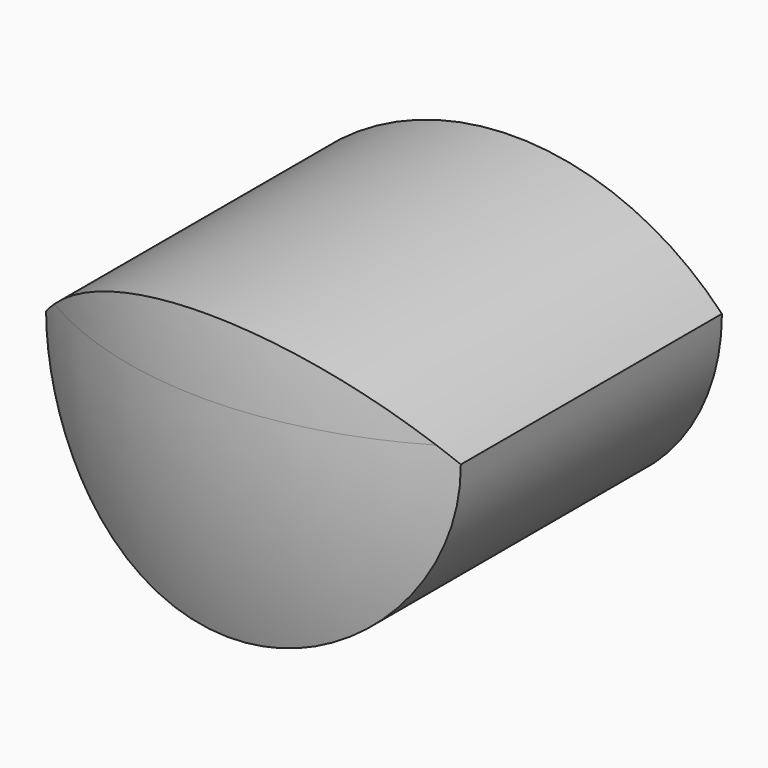
from build123d import *

# Parameters (mm, degrees)
EXTRUDE002_DEPTH = 100


with BuildPart() as body003:
    # Sketch → Revolution (revolve)
    with BuildSketch(Plane.XZ):
        with BuildLine():
            Line((0, 0), (0, 135.563389))
            ThreePointArc((23.86226, 121.281178), (13.904936, 131.720055), (0, 135.563389))
            ThreePointArc((32.577943, 87.696618), (30.229669, 105.01041), (23.86226, 121.281178))
            ThreePointArc((22.101567, 52.101534), (30.047255, 69.102202), (32.577943, 87.696618))
            ThreePointArc((22.101567, 52.101534), (13.488015, 26.476163), (18.952965, 0))
            Line((0, 0), (18.952965, 0))
        make_face()
    revolve(axis=Axis((0, 0, 0), (0, 0, 1)))


with BuildPart() as body003_1:
    # Clone002 placement: moved
    add(body003.part.moved(Location((0, -1.1, 0))))


with BuildPart() as common002:
    # Sketch015 → Extrude002 (new body)
    with BuildSketch(Plane.XZ):
        with BuildLine():
            ThreePointArc((-17.97, 86.319116), (0, 68.349116), (17.97, 86.319116))
            ThreePointArc((17.97, 86.319116), (0, 94.009169), (-17.97, 86.319116))
        make_face()
    extrude(amount=EXTRUDE002_DEPTH)

    # Common002: intersect Body003
    add(body003_1.part, mode=Mode.INTERSECT)


solid = common002.part
